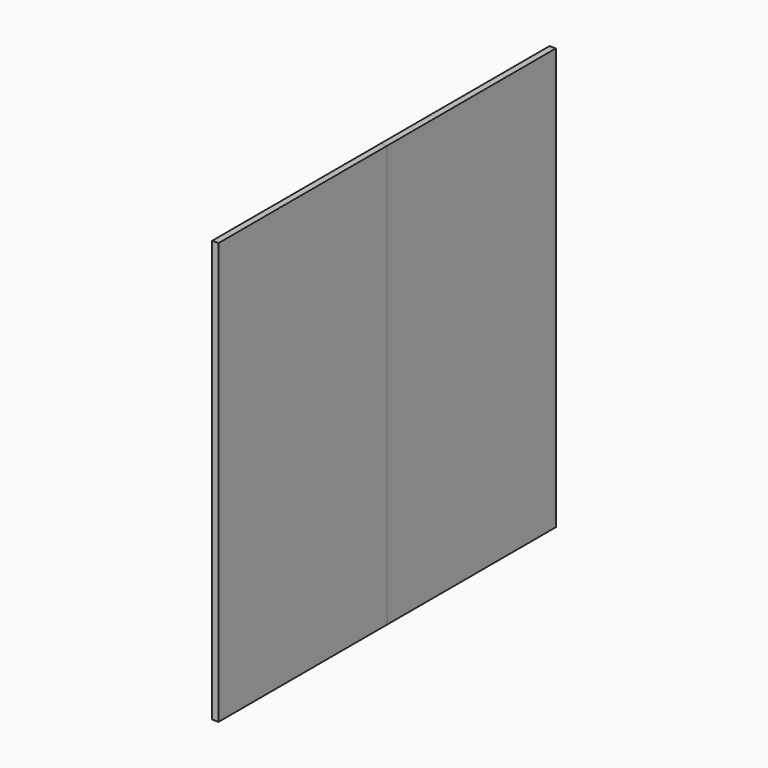
from build123d import *

# Parameters (mm, degrees)
F0_W     = 600
F0_H     = 1200
F1_DEPTH = 18
F2_DEPTH = 18


with BuildPart() as f1:
    # F0 (on Right) → F1 (new body)
    with BuildSketch(Plane.YZ):
        with Locations((-300, 600)):
            Rectangle(F0_W, F0_H)
    extrude(amount=-F1_DEPTH)


with BuildPart() as f2:
    # F0 (on Right) → F2 (new body)
    with BuildSketch(Plane.YZ):
        with Locations((300, 600)):
            Rectangle(F0_W, F0_H)
    extrude(amount=-F2_DEPTH)


solid = Compound([f1.part, f2.part])
